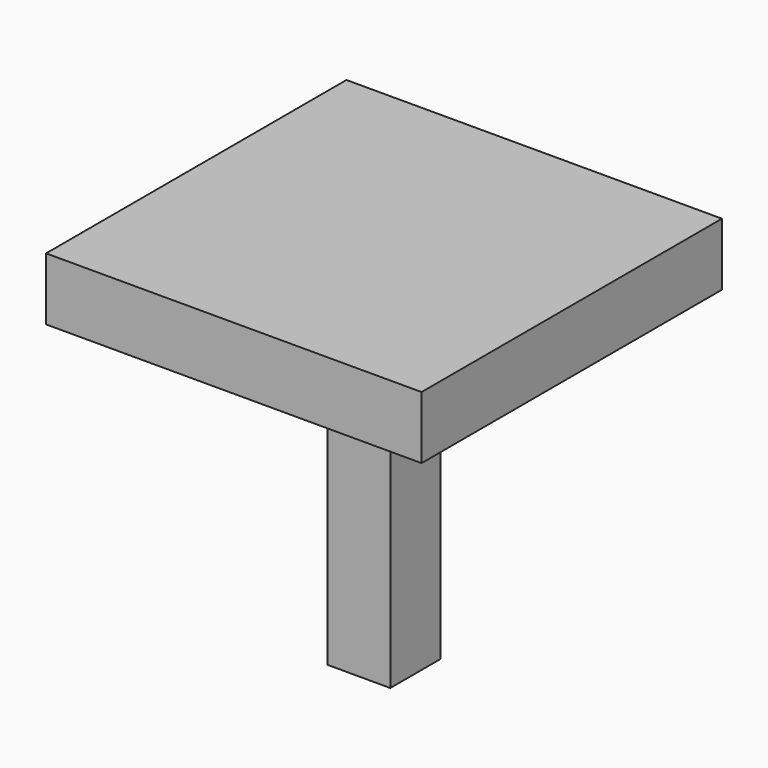
from build123d import *

# Parameters (mm, degrees)
F1_DEPTH = 76.2
F0_W     = 25.4
F0_H     = 126.830346
F2_DEPTH = 12.7
F3_R     = 6.35
F4_DEPTH = 12.7


with BuildPart() as f1:
    # F0 (on Front) → F1 (new body, symmetric)
    with BuildSketch(Plane.XZ):
        Polygon((12.7, 76.030346), (-12.7, 76.030346), (-76.2, 76.030346), (-76.2, 50.630346), (-12.7, 50.630346), (12.7, 50.630346), (76.2, 50.630346), (76.2, 76.030346), align=None)
    extrude(amount=F1_DEPTH, both=True)

    # F0 (on Front) → F2 (join, symmetric)
    with BuildSketch(Plane.XZ):
        with Locations((0, -12.784827)):
            Rectangle(F0_W, F0_H)
    extrude(amount=F2_DEPTH, both=True)

    # F3 (on face) → F4 (cut)
    with BuildSketch(Plane(origin=(-76.2, 0, 0), x_dir=(0, -1, 0), z_dir=(-1, 0, 0))):
        with Locations((31.75, 63.330346)):
            Circle(F3_R)
        with Locations((-31.75, 63.330346)):
            Circle(F3_R)
    extrude(amount=-F4_DEPTH, mode=Mode.SUBTRACT)


solid = f1.part
